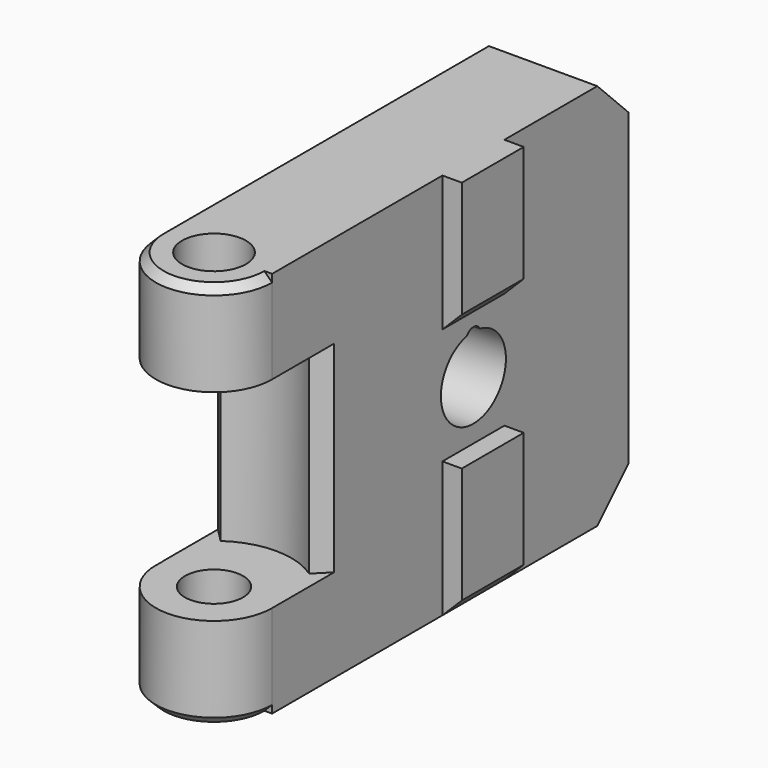
from build123d import *

# Parameters (mm, degrees)
CYLINDER018_R     = 1.5
CYLINDER018_DEPTH = 4.8
CYLINDER017_R     = 2
CYLINDER017_DEPTH = 4.8
CYLINDER016_R     = 4
CYLINDER016_DEPTH = 10.4
CYLINDER012_R     = 0.5
CYLINDER012_DEPTH = 10
CYLINDER013_R     = 5
CYLINDER013_DEPTH = 10
CYLINDER011_R     = 0.5
CYLINDER011_DEPTH = 10
CYLINDER010_R     = 2.1
CYLINDER010_DEPTH = 10
CYLINDER008_R     = 1.65
CYLINDER008_DEPTH = 4.8
CYLINDER009_R     = 1.65
CYLINDER009_DEPTH = 4.8
CYLINDER007_R     = 3
CYLINDER007_DEPTH = 4.8
CHAMFER005_SIZE   = 0.4
CYLINDER006_R     = 3
CYLINDER006_DEPTH = 4.8
CHAMFER006_SIZE   = 0.4
BOX009_W          = 6
BOX009_H          = 3
BOX009_DEPTH      = 10.4
BOX008_W          = 6
BOX008_H          = 23
BOX008_DEPTH      = 20
CHAMFER003_SIZE   = 2
CHAMFER004_SIZE   = 0.4
CHAMFER007_SIZE   = 1
BOX011_W          = 2
BOX011_H          = 4
BOX011_DEPTH      = 7
CHAMFER008_SIZE   = 1
BOX010_W          = 2
BOX010_H          = 4
BOX010_DEPTH      = 7
CHAMFER009_SIZE   = 1


with BuildPart() as cylinder018:
    # Cylinder018 → Cylinder018 (new body)
    with BuildSketch(Plane(origin=(-3, -3, 0), x_dir=(1, 0, 0), z_dir=(0, 0, 1))):
        Circle(CYLINDER018_R)
    extrude(amount=CYLINDER018_DEPTH)


with BuildPart() as cut011:
    # Cylinder017 → Cylinder017 (new body)
    with BuildSketch(Plane(origin=(-3, -3, 0), x_dir=(1, 0, 0), z_dir=(0, 0, 1))):
        Circle(CYLINDER017_R)
    extrude(amount=CYLINDER017_DEPTH)

    # Cut011: cut Cylinder018
    add(cylinder018.part, mode=Mode.SUBTRACT)


with BuildPart() as cylinder016:
    # Cylinder016 → Cylinder016 (new body)
    with BuildSketch(Plane(origin=(-3, -3, 4.8), x_dir=(1, 0, 0), z_dir=(0, 0, 1))):
        Circle(CYLINDER016_R)
    extrude(amount=CYLINDER016_DEPTH)


with BuildPart() as cylinder012:
    # Cylinder012 → Cylinder012 (new body)
    with BuildSketch(Plane(origin=(-3, 10, 14.7), x_dir=(0, 0, 1), z_dir=(-1, 0, 0))):
        Circle(CYLINDER012_R)
    extrude(amount=CYLINDER012_DEPTH)


with BuildPart() as cylinder013:
    # Cylinder013 → Cylinder013 (new body)
    with BuildSketch(Plane(origin=(-3, 10, 10), x_dir=(0, 0, 1), z_dir=(-1, 0, 0))):
        Circle(CYLINDER013_R)
    extrude(amount=CYLINDER013_DEPTH)


with BuildPart() as cylinder011:
    # Cylinder011 → Cylinder011 (new body)
    with BuildSketch(Plane(origin=(0, 10, 11.8), x_dir=(0, 0, 1), z_dir=(-1, 0, 0))):
        Circle(CYLINDER011_R)
    extrude(amount=CYLINDER011_DEPTH)


with BuildPart() as cylinder010:
    # Cylinder010 → Cylinder010 (new body)
    with BuildSketch(Plane(origin=(0, 10, 10), x_dir=(0, 0, 1), z_dir=(-1, 0, 0))):
        Circle(CYLINDER010_R)
    extrude(amount=CYLINDER010_DEPTH)


with BuildPart() as cylinder008:
    # Cylinder008 → Cylinder008 (new body)
    with BuildSketch(Plane(origin=(-3, -3, 15.2), x_dir=(1, 0, 0), z_dir=(0, 0, 1))):
        Circle(CYLINDER008_R)
    extrude(amount=CYLINDER008_DEPTH)


with BuildPart() as fusion004:
    # Cylinder009 → Cylinder009 (new body)
    with BuildSketch(Plane(origin=(-3, -3, 0), x_dir=(1, 0, 0), z_dir=(0, 0, 1))):
        Circle(CYLINDER009_R)
    extrude(amount=CYLINDER009_DEPTH)

    # Fusion004: union Cylinder008
    add(cylinder008.part)


with BuildPart() as chamfer005:
    # Cylinder007 → Cylinder007 (new body)
    with BuildSketch(Plane(origin=(-3, -3, 15.2), x_dir=(1, 0, 0), z_dir=(0, 0, 1))):
        Circle(CYLINDER007_R)
    extrude(amount=CYLINDER007_DEPTH)

    # Chamfer005
    chamfer005_edges = [chamfer005.edges().sort_by_distance(p)[0] for p in [
        (-6, -3, 20),
    ]]
    chamfer(chamfer005_edges, length=CHAMFER005_SIZE)


with BuildPart() as chamfer006:
    # Cylinder006 → Cylinder006 (new body)
    with BuildSketch(Plane(origin=(-3, -3, 0), x_dir=(1, 0, 0), z_dir=(0, 0, 1))):
        Circle(CYLINDER006_R)
    extrude(amount=CYLINDER006_DEPTH)

    # Chamfer006
    chamfer006_edges = [chamfer006.edges().sort_by_distance(p)[0] for p in [
        (-6, -3, 0),
    ]]
    chamfer(chamfer006_edges, length=CHAMFER006_SIZE)


with BuildPart() as cube006:
    # Box009 → Box009 (new body)
    with BuildSketch(Plane(origin=(-6, -3, 4.8), x_dir=(1, 0, 0), z_dir=(0, 0, 1))):
        with Locations((3, 1.5)):
            Rectangle(BOX009_W, BOX009_H)
    extrude(amount=BOX009_DEPTH)


with BuildPart() as cut009:
    # Box008 → Box008 (new body)
    with BuildSketch(Plane(origin=(-6, -3, 0), x_dir=(1, 0, 0), z_dir=(0, 0, 1))):
        with Locations((3, 11.5)):
            Rectangle(BOX008_W, BOX008_H)
    extrude(amount=BOX008_DEPTH)

    # Chamfer003
    chamfer003_edges = [cut009.edges().sort_by_distance(p)[0] for p in [
        (-3, 20, 0),
        (-3, 20, 20),
    ]]
    chamfer(chamfer003_edges, length=CHAMFER003_SIZE)

    # Chamfer004
    chamfer004_edges = [cut009.edges().sort_by_distance(p)[0] for p in [
        (-6, 7.5, 20),
        (-6, 19, 19),
        (-6, -3, 10),
        (-6, 20, 10),
        (-6, 7.5, 0),
        (-6, 19, 1),
    ]]
    chamfer(chamfer004_edges, length=CHAMFER004_SIZE)

    # Cut004: cut Cube006
    add(cube006.part, mode=Mode.SUBTRACT)

    # Fusion005: union Chamfer005, Chamfer006
    add(chamfer005.part)
    add(chamfer006.part)

    # Cut005: cut Fusion004
    add(fusion004.part, mode=Mode.SUBTRACT)

    # Chamfer007
    chamfer007_edges = [cut009.edges().sort_by_distance(p)[0] for p in [
        (-6, 0, 10),
        (0, 0, 10),
    ]]
    chamfer(chamfer007_edges, length=CHAMFER007_SIZE)

    # Cut006: cut Cylinder010
    add(cylinder010.part, mode=Mode.SUBTRACT)

    # Cut007: cut Cylinder011
    add(cylinder011.part, mode=Mode.SUBTRACT)

    # Cut008: cut Cylinder013
    add(cylinder013.part, mode=Mode.SUBTRACT)

    # Cut009: cut Cylinder012
    add(cylinder012.part, mode=Mode.SUBTRACT)


with BuildPart() as chamfer008:
    # Box011 → Box011 (new body)
    with BuildSketch(Plane(origin=(-1, 8, 13), x_dir=(1, 0, 0), z_dir=(0, 0, 1))):
        with Locations((1, 2)):
            Rectangle(BOX011_W, BOX011_H)
    extrude(amount=BOX011_DEPTH)

    # Chamfer008
    chamfer008_edges = [chamfer008.edges().sort_by_distance(p)[0] for p in [
        (1, 10, 13),
    ]]
    chamfer(chamfer008_edges, length=CHAMFER008_SIZE)


with BuildPart() as base:
    # Box010 → Box010 (new body)
    with BuildSketch(Plane(origin=(-1, 8, 0), x_dir=(1, 0, 0), z_dir=(0, 0, 1))):
        with Locations((1, 2)):
            Rectangle(BOX010_W, BOX010_H)
    extrude(amount=BOX010_DEPTH)

    # Chamfer009
    chamfer009_edges = [base.edges().sort_by_distance(p)[0] for p in [
        (1, 10, 0),
    ]]
    chamfer(chamfer009_edges, length=CHAMFER009_SIZE)

    # Fusion006: union Cut009, Chamfer008
    add(cut009.part)
    add(chamfer008.part)

    # Cut010: cut Cylinder016
    add(cylinder016.part, mode=Mode.SUBTRACT)

    # Fusion007: union Cut011
    add(cut011.part)


with BuildPart() as base_1:
    # Fusion007 placement: moved
    add(base.part.moved(Location((-38, 0, 15))))


solid = base_1.part
